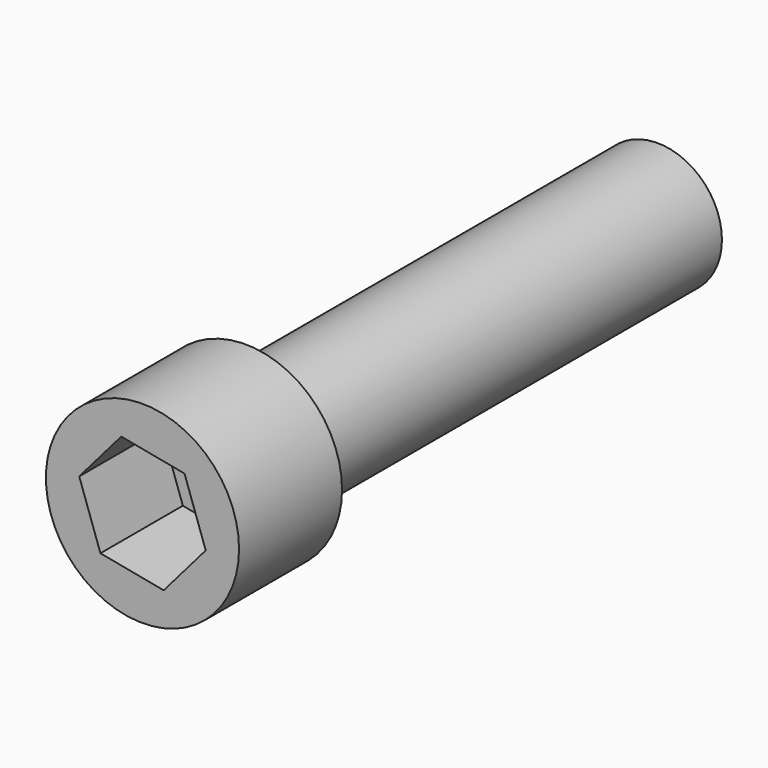
from build123d import *

# Parameters (mm, degrees)
F0_R     = 3.175
F1_DEPTH = 25.4
F2_R     = 4.7625
F3_DEPTH = 6.35
F5_DEPTH = 5.08


with BuildPart() as f1:
    # F0 (on Front) → F1 (new body)
    with BuildSketch(Plane.XZ):
        Circle(F0_R)
    extrude(amount=F1_DEPTH)

    # F2 (on face) → F3 (join)
    with BuildSketch(Plane.XZ.offset(25.4)):
        Circle(F2_R)
    extrude(amount=F3_DEPTH)

    # F4 (on face) → F5 (cut)
    with BuildSketch(Plane.XZ.offset(31.75)):
        Polygon((-3.119147, 0.592914), (-2.073052, -2.404803), (1.046095, -2.997718), (3.119147, -0.592914), (2.073052, 2.404803), (-1.046095, 2.997718), align=None)
    extrude(amount=-F5_DEPTH, mode=Mode.SUBTRACT)


solid = f1.part
